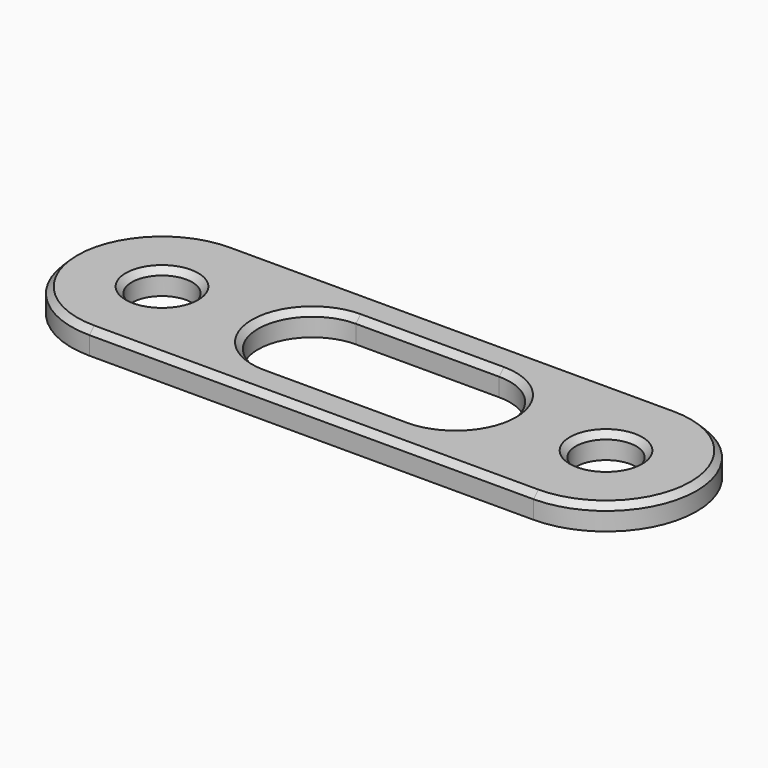
from build123d import *

# Parameters (mm, degrees)
SKETCH_R        = 5
PAD_DEPTH       = 4
CHAMFER_SIZE    = 1
CHAMFER001_SIZE = 1
CHAMFER002_SIZE = 1


with BuildPart() as part:
    # Sketch → Pad (new body)
    with BuildSketch(Plane.XY):
        with BuildLine():
            ThreePointArc((-36.75, 15), (-51.75, 0), (-36.75, -15))
            Line((-36.75, -15), (36.75, -15))
            ThreePointArc((36.75, -15), (51.75, 0), (36.75, 15))
            Line((-36.75, 15), (36.75, 15))
        make_face()
        with Locations((-36.75, 0)):
            Circle(SKETCH_R, mode=Mode.SUBTRACT)
        with Locations((36.75, 0)):
            Circle(SKETCH_R, mode=Mode.SUBTRACT)
        with BuildLine():
            ThreePointArc((-11.85289, 9), (-20.85289, 0), (-11.85289, -9))
            Line((-11.85289, -9), (11.85289, -9))
            ThreePointArc((11.85289, -9), (20.85289, 0), (11.85289, 9))
            Line((-11.85289, 9), (11.85289, 9))
        make_face(mode=Mode.SUBTRACT)
    extrude(amount=PAD_DEPTH)

    # Chamfer
    chamfer_edges = [part.edges().sort_by_distance(p)[0] for p in [
        (-41.75, 0, 4),
        (31.75, 0, 4),
    ]]
    chamfer(chamfer_edges, length=CHAMFER_SIZE)

    # Chamfer001
    chamfer001_edges = [part.edges().sort_by_distance(p)[0] for p in [
        (0, 15, 4),
        (51.75, 0, 4),
        (0, -15, 4),
        (-51.75, 0, 4),
    ]]
    chamfer(chamfer001_edges, length=CHAMFER001_SIZE)

    # Chamfer002
    chamfer002_edges = [part.edges().sort_by_distance(p)[0] for p in [
        (20.85289, 0, 4),
        (0, -9, 4),
        (-20.85289, 0, 4),
        (0, 9, 4),
    ]]
    chamfer(chamfer002_edges, length=CHAMFER002_SIZE)


solid = part.part
